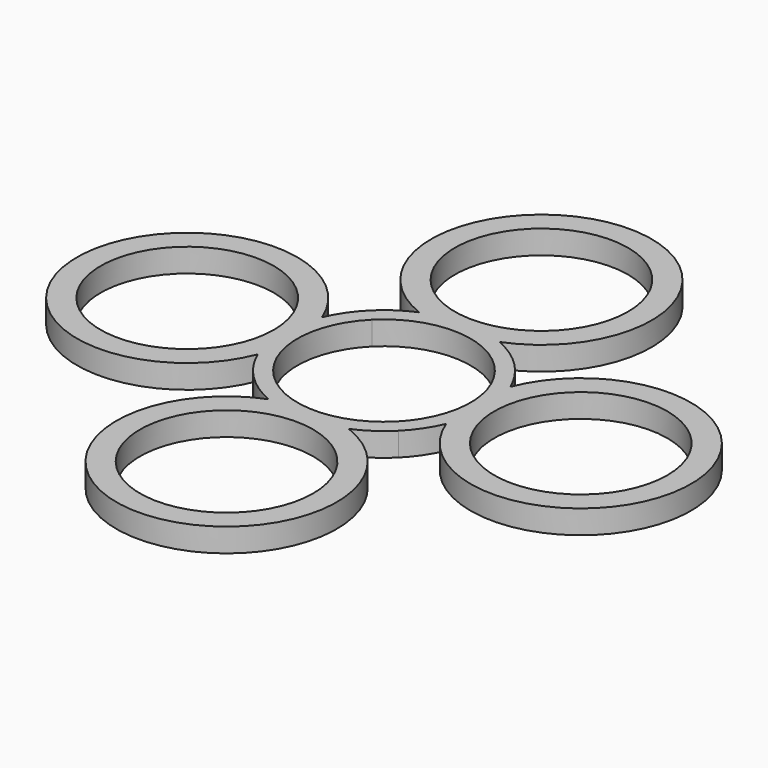
from build123d import *

# Parameters (mm, degrees)
F0_R     = 11
F1_DEPTH = 3


with BuildPart() as f1:
    # F0 (on Top) → F1 (new body)
    with BuildSketch(Plane.XY):
        with BuildLine():
            ThreePointArc((5.094939, 11.96), (0, 39), (-5.094939, 11.96))
            ThreePointArc((-5.094939, 11.96), (-7.276458, 10.772797), (-9.192388, 9.192388))
            ThreePointArc((-9.192388, 9.192388), (-10.772797, 7.276458), (-11.96, 5.094939))
            ThreePointArc((-11.96, 5.094939), (-39, 0), (-11.96, -5.094939))
            ThreePointArc((-11.96, -5.094939), (-10.772797, -7.276458), (-9.192388, -9.192388))
            ThreePointArc((-9.192388, -9.192388), (-7.276458, -10.772797), (-5.094939, -11.96))
            ThreePointArc((-5.094939, -11.96), (0, -39), (5.094939, -11.96))
            ThreePointArc((5.094939, -11.96), (7.276458, -10.772797), (9.192388, -9.192388))
            ThreePointArc((9.192388, -9.192388), (10.772797, -7.276458), (11.96, -5.094939))
            ThreePointArc((11.96, -5.094939), (39, 0), (11.96, 5.094939))
            ThreePointArc((11.96, 5.094939), (10.772797, 7.276458), (9.192388, 9.192388))
            ThreePointArc((9.192388, 9.192388), (7.276458, 10.772797), (5.094939, 11.96))
        make_face()
        with Locations((0, -25)):
            Circle(F0_R, mode=Mode.SUBTRACT)
        with Locations((-25, 0)):
            Circle(F0_R, mode=Mode.SUBTRACT)
        with BuildLine():
            ThreePointArc((-7.778175, 7.778175), (0, 11), (7.778175, 7.778175))
            ThreePointArc((7.778175, 7.778175), (11, 0), (7.778175, -7.778175))
            ThreePointArc((7.778175, -7.778175), (0, -11), (-7.778175, -7.778175))
            ThreePointArc((-7.778175, -7.778175), (-11, 0), (-7.778175, 7.778175))
        make_face(mode=Mode.SUBTRACT)
        with Locations((25, 0)):
            Circle(F0_R, mode=Mode.SUBTRACT)
        with Locations((0, 25)):
            Circle(F0_R, mode=Mode.SUBTRACT)
    extrude(amount=F1_DEPTH)


solid = f1.part
